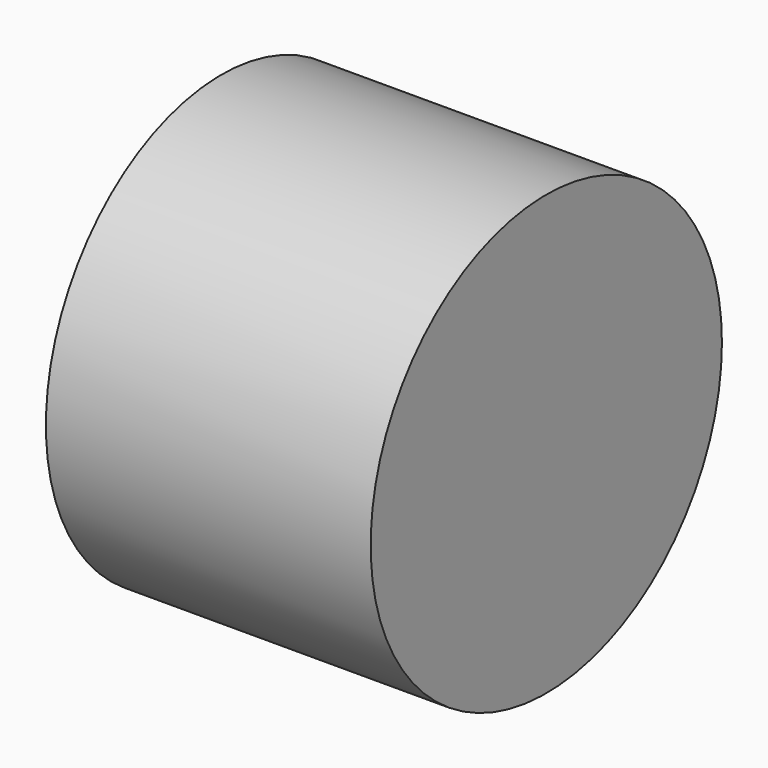
from build123d import *

# Parameters (mm, degrees)
F0_R     = 34.33673
F1_DEPTH = 25.4


with BuildPart() as f1:
    # F0 (on Right) → F1 (new body)
    with BuildSketch(Plane.YZ):
        Circle(F0_R)
    extrude(amount=F1_DEPTH)

    # F2: F1 across plane


with BuildPart() as f1_1:
    add(f1.part)
    add(f1.part.mirror(Plane.YZ))


solid = f1_1.part
